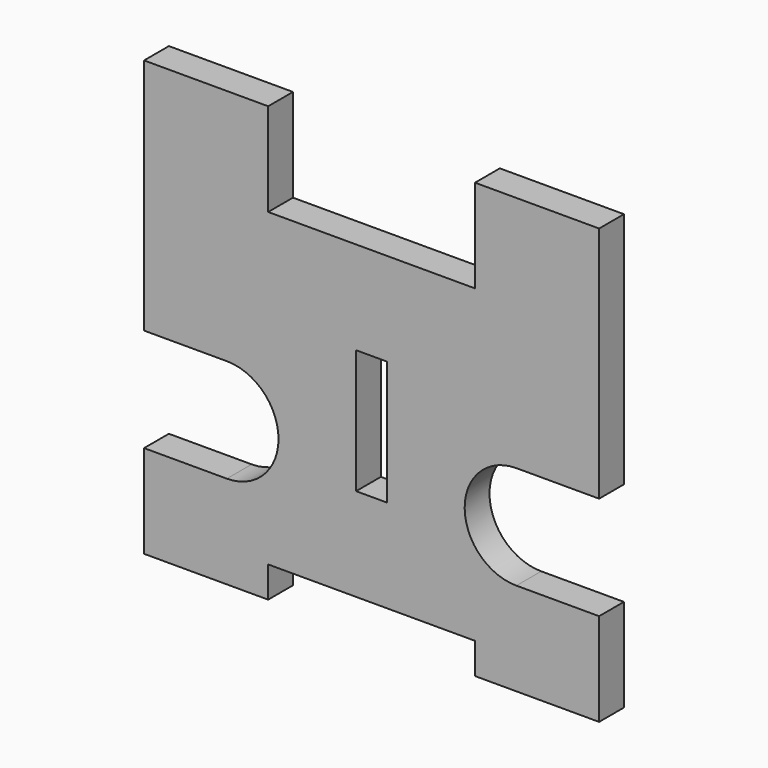
from build123d import *

# Parameters (mm, degrees)
F0_W     = 3
F0_H     = 12
F1_DEPTH = 3


with BuildPart() as f1:
    # F0 (on Front) → F1 (new body)
    with BuildSketch(Plane.XZ):
        with BuildLine():
            Line((10, 24), (10, 15))
            Line((10, 15), (-10, 15))
            Line((-10, 15), (-10, 24))
            Line((-10, 24), (-22, 24))
            Line((-22, 24), (-22, 15))
            Line((-22, 15), (-22, 1))
            Line((-22, 1), (-14, 1))
            ThreePointArc((-14, 1), (-9, -4), (-14, -9))
            Line((-14, -9), (-22, -9))
            Line((-22, -9), (-22, -15))
            Line((-22, -15), (-22, -18))
            Line((-22, -18), (-10, -18))
            Line((-10, -18), (-10, -15))
            Line((-10, -15), (10, -15))
            Line((10, -15), (10, -18))
            Line((10, -18), (22, -18))
            Line((22, -18), (22, -15))
            Line((22, -15), (22, -9))
            Line((22, -9), (14, -9))
            ThreePointArc((14, -9), (9, -4), (14, 1))
            Line((14, 1), (22, 1))
            Line((22, 1), (22, 15))
            Line((22, 15), (22, 24))
            Line((22, 24), (10, 24))
        make_face()
        Rectangle(F0_W, F0_H, mode=Mode.SUBTRACT)
    extrude(amount=F1_DEPTH)


solid = f1.part
